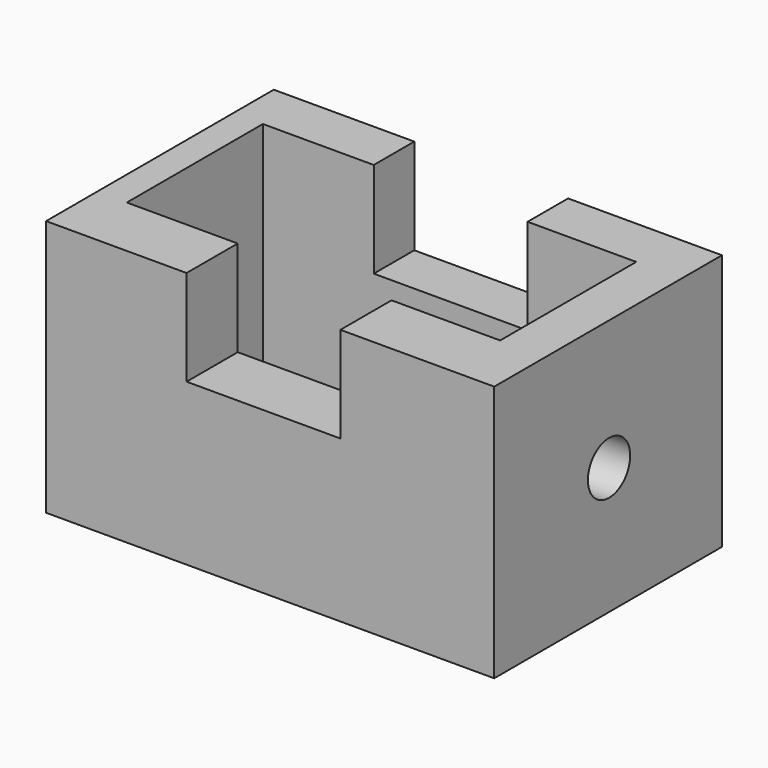
from build123d import *

# Parameters (mm, degrees)
F0_W     = 104.791857
F0_H     = 60.042905
F1_DEPTH = 66.548
F3_W     = 87.298889
F3_H     = 39.771117
F4_DEPTH = 60.043905
F2_W     = 35.969097
F2_H     = 22.374479
F5_DEPTH = 66.549
F6_R     = 6.173541
F7_DEPTH = 104.792857


with BuildPart() as f1:
    # F0 (on Front) → F1 (new body)
    with BuildSketch(Plane.XZ):
        with Locations((2.407379, -0.566443)):
            Rectangle(F0_W, F0_H)
    extrude(amount=F1_DEPTH)

    # F3 (on face) → F4 (cut, through all)
    with BuildSketch(Plane.XY.offset(29.45501)):
        with Locations((0.584687, -31.723138)):
            Rectangle(F3_W, F3_H)
    extrude(amount=-F4_DEPTH, mode=Mode.SUBTRACT)

    # F2 (on face) → F5 (cut, through all)
    with BuildSketch(Plane.XZ.offset(66.548)):
        with Locations((0.849664, 18.26777)):
            Rectangle(F2_W, F2_H)
    extrude(amount=-F5_DEPTH, mode=Mode.SUBTRACT)

    # F6 (on face) → F7 (cut, through all)
    with BuildSketch(Plane.YZ.offset(54.803308)):
        with Locations((-32.995041, -0.901195)):
            Circle(F6_R)
    extrude(amount=-F7_DEPTH, mode=Mode.SUBTRACT)


solid = f1.part
